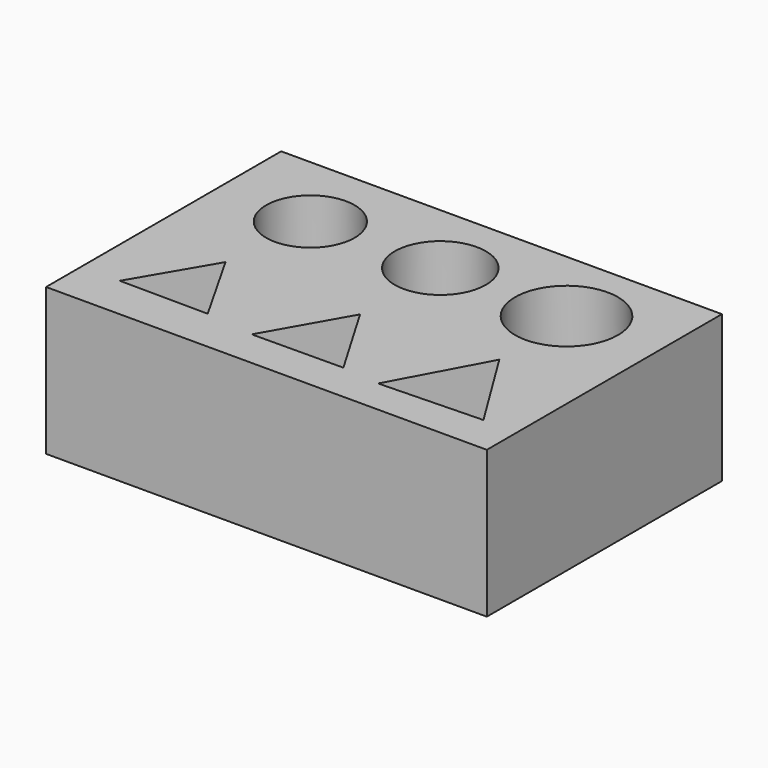
from build123d import *

# Parameters (mm, degrees)
F0_W     = 150
F0_H     = 100
F1_DEPTH = 50
F2_R     = 15.05
F2_R_2   = 15.5
F2_R_3   = 17.5
F3_DEPTH = 30


with BuildPart() as f1:
    # F0 (on Top) → F1 (new body)
    with BuildSketch(Plane.XY):
        Rectangle(F0_W, F0_H)
    extrude(amount=F1_DEPTH)

    # F2 (on face) → F3 (cut)
    with BuildSketch(Plane.XY.offset(50)):
        with Locations((-43.700065, 23.309725)):
            Circle(F2_R)
        with Locations((0, 23.955417)):
            Circle(F2_R_2)
        with Locations((43.468519, 23.309725)):
            Circle(F2_R_3)
        Polygon((-61.944879, -34.990932), (-31.845553, -35.192401), (-46.720739, -9.024886), align=None)
        Polygon((-15.296724, -37.1452), (15.702391, -36.910988), (0, -10.182073), align=None)
        Polygon((28.591996, -38.232997), (63.57602, -37.175601), (45.168276, -7.407246), align=None)
    extrude(amount=-F3_DEPTH, mode=Mode.SUBTRACT)


solid = f1.part
